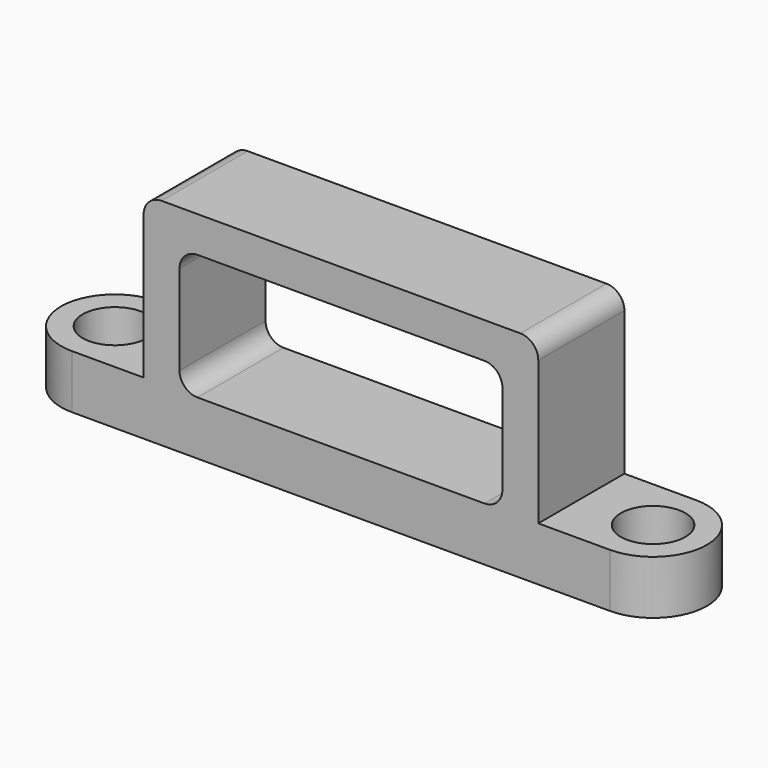
from build123d import *

# Parameters (mm, degrees)
CYLINDER001_R     = 1.8
CYLINDER001_DEPTH = 10
BOX002_W          = 18
BOX002_H          = 6
BOX002_DEPTH      = 7
FILLET_R          = 1
CYLINDER_R        = 3
CYLINDER_DEPTH    = 3
BOX_W             = 30
BOX_H             = 6
BOX_DEPTH         = 3
BOX001_W          = 22
BOX001_H          = 6
BOX001_DEPTH      = 9
FILLET001_R       = 1


with BuildPart() as bolt_hole:
    # Cylinder001 → Cylinder001 (new body)
    with BuildSketch(Plane(origin=(-15, 0, 0), x_dir=(1, 0, 0), z_dir=(0, 0, 1))):
        Circle(CYLINDER001_R)
    extrude(amount=CYLINDER001_DEPTH)


with BuildPart() as central_hole_fillet:
    # Box002 → Box002 (new body)
    with BuildSketch(Plane(origin=(-9, -3, 3), x_dir=(1, 0, 0), z_dir=(0, 0, 1))):
        with Locations((9, 3)):
            Rectangle(BOX002_W, BOX002_H)
    extrude(amount=BOX002_DEPTH)

    # Fillet
    fillet_edges = [central_hole_fillet.edges().sort_by_distance(p)[0] for p in [
        (-9, 0, 10),
        (-9, 0, 3),
        (9, 0, 10),
        (9, 0, 3),
    ]]
    fillet(fillet_edges, radius=FILLET_R)


with BuildPart() as extract_fusion:
    # Part__Mirroring001: instance of bolt hole
    add(bolt_hole.part.mirror(Plane(origin=(0, 0, 0), x_dir=(0, -1, 0), z_dir=(1, 0, 0))))

    # Fusion001: union bolt hole, central hole fillet
    add(bolt_hole.part)
    add(central_hole_fillet.part)


with BuildPart() as end_cylinder:
    # Cylinder → Cylinder (new body)
    with BuildSketch(Plane(origin=(-15, 0, 0), x_dir=(1, 0, 0), z_dir=(0, 0, 1))):
        Circle(CYLINDER_R)
    extrude(amount=CYLINDER_DEPTH)


with BuildPart() as part_mirroring:
    # Part__Mirroring: instance of end cylinder
    add(end_cylinder.part.mirror(Plane(origin=(0, 0, 0), x_dir=(0, -1, 0), z_dir=(1, 0, 0))))


with BuildPart() as bottom_cube:
    # Box → Box (new body)
    with BuildSketch(Plane(origin=(-15, -3, 0), x_dir=(1, 0, 0), z_dir=(0, 0, 1))):
        with Locations((15, 3)):
            Rectangle(BOX_W, BOX_H)
    extrude(amount=BOX_DEPTH)


with BuildPart() as top_cube_fillet:
    # Box001 → Box001 (new body)
    with BuildSketch(Plane(origin=(-11, -3, 3), x_dir=(1, 0, 0), z_dir=(0, 0, 1))):
        with Locations((11, 3)):
            Rectangle(BOX001_W, BOX001_H)
    extrude(amount=BOX001_DEPTH)

    # Fillet001
    fillet001_edges = [top_cube_fillet.edges().sort_by_distance(p)[0] for p in [
        (-11, 0, 12),
        (11, 0, 12),
    ]]
    fillet(fillet001_edges, radius=FILLET001_R)


with BuildPart() as wire_holder:
    # Fusion base: copy of end cylinder
    add(end_cylinder.part)

    # Fusion: union Part__Mirroring, bottom cube, top cube fillet
    add(part_mirroring.part)
    add(bottom_cube.part)
    add(top_cube_fillet.part)

    # Cut: cut extract fusion
    add(extract_fusion.part, mode=Mode.SUBTRACT)


solid = wire_holder.part
